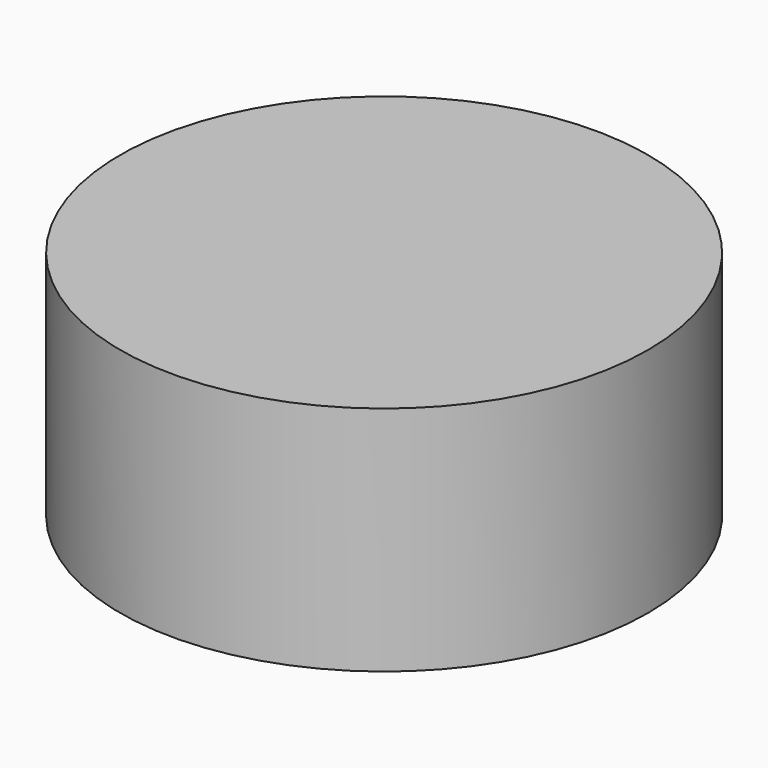
from build123d import *

# Parameters (mm, degrees)
SKETCH_R      = 57
EXTRUDE_DEPTH = 50


with BuildPart() as part:
    # Sketch → Extrude (new body)
    with BuildSketch(Plane.XY):
        Circle(SKETCH_R)
    extrude(amount=EXTRUDE_DEPTH)


solid = part.part
